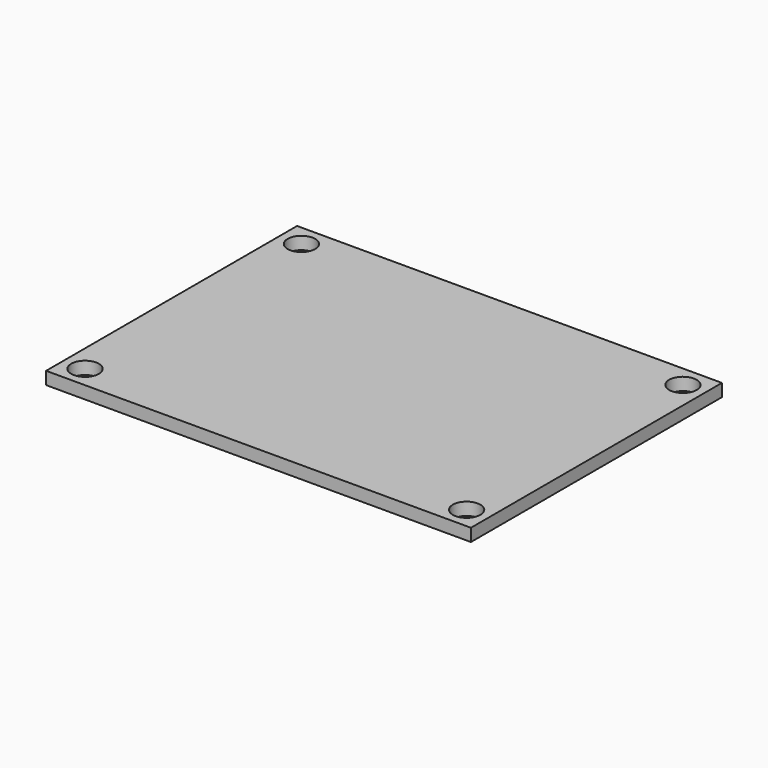
from build123d import *

# Parameters (mm, degrees)
F0_W     = 53.940976
F0_H     = 39.829598
F1_DEPTH = 1.6
F3_D     = 3.5


with BuildPart() as f1:
    # F0 (on Top) → F1 (new body)
    with BuildSketch(Plane.XY):
        with Locations((16.031983, 8.544564)):
            Rectangle(F0_W, F0_H)
    extrude(amount=F1_DEPTH)

    # F3 (through all)
    with Locations(Plane.XY.offset(1.6)):
        with Locations((-8.188505, 25.709363), (-8.188505, -8.620235), (40.252471, -8.620235), (40.252471, 25.709363)):
            Hole(F3_D / 2)


solid = f1.part
